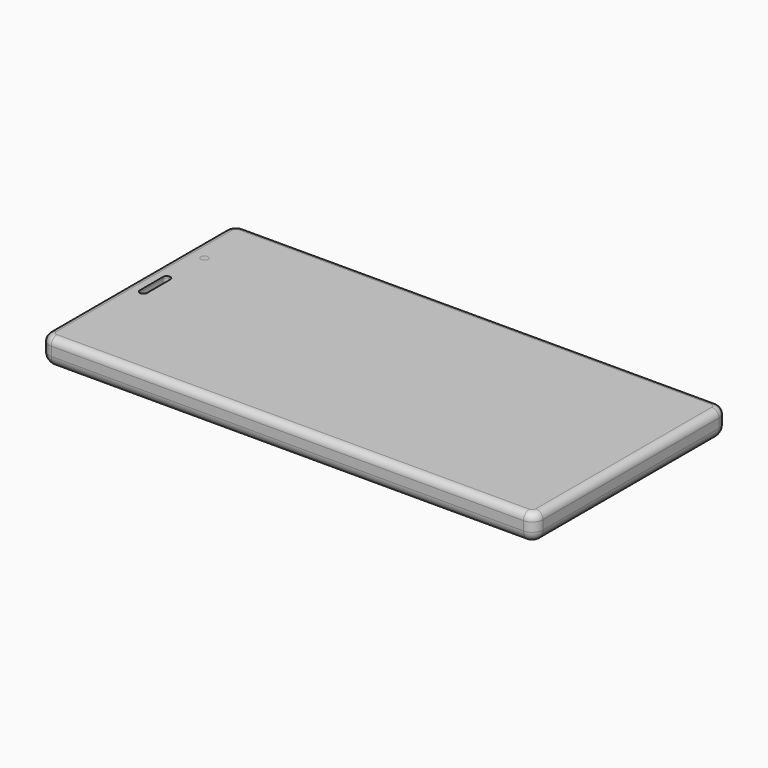
from build123d import *

# Parameters (mm, degrees)
BOX005_W          = 121
BOX005_H          = 63
BOX005_DEPTH      = 1
BOX007_W          = 4
BOX007_H          = 63
BOX007_DEPTH      = 1
FILLET006_R       = 1
CYLINDER005_R     = 1
CYLINDER005_DEPTH = 10
CYLINDER004_R     = 1
CYLINDER004_DEPTH = 10
CYLINDER001_R     = 2
CYLINDER001_DEPTH = 0.2
CYLINDER_R        = 2
CYLINDER_DEPTH    = 0.2
BOX008_W          = 8
BOX008_H          = 16
BOX008_DEPTH      = 0.2
BOX013_W          = 42
BOX013_H          = 62
BOX013_DEPTH      = 3
BOX014_W          = 10
BOX014_H          = 62
BOX014_DEPTH      = 3
BOX015_W          = 77
BOX015_H          = 61.7
BOX015_DEPTH      = 4.05
CYLINDER010_R     = 1
CYLINDER010_DEPTH = 10
BOX016_W          = 2
BOX016_H          = 10
BOX016_DEPTH      = 10
FILLET008_R       = 0.95
BOX004_W          = 133
BOX004_H          = 63
BOX004_DEPTH      = 0.5
FILLET005_R       = 1
CYLINDER012_R     = 1
CYLINDER012_DEPTH = 2
BOX017_W          = 3
BOX017_H          = 5
BOX017_DEPTH      = 10
CYLINDER011_R     = 2
CYLINDER011_DEPTH = 10
CYLINDER009_R     = 1.2
CYLINDER009_DEPTH = 0.1
CYLINDER008_R     = 1.2
CYLINDER008_DEPTH = 0.1
BOX011_W          = 9
BOX011_H          = 2
BOX011_DEPTH      = 0.3
BOX012_W          = 9
BOX012_H          = 2
BOX012_DEPTH      = 0.3
CYLINDER006_R     = 1.5
CYLINDER006_DEPTH = 10
CYLINDER007_R     = 1.5
CYLINDER007_DEPTH = 10
BOX010_W          = 8
BOX010_H          = 16
BOX010_DEPTH      = 1.2
CYLINDER003_R     = 2.5
CYLINDER003_DEPTH = 0.3
CYLINDER002_R     = 2.5
CYLINDER002_DEPTH = 0.3
BOX009_W          = 9
BOX009_H          = 16
BOX009_DEPTH      = 0.3
BOX003_W          = 133
BOX003_H          = 63
BOX003_DEPTH      = 0.5
FILLET004_R       = 1
BOX018_W          = 3
BOX018_H          = 5
BOX018_DEPTH      = 10
FILLET009_R       = 1.49
BOX006_W          = 8
BOX006_H          = 63
BOX006_DEPTH      = 1
FILLET007_R       = 1
BOX020_W          = 8
BOX020_H          = 8
BOX020_DEPTH      = 1
FILLET011_R       = 3
BOX022_W          = 8
BOX022_H          = 4
BOX022_DEPTH      = 1
FILLET013_R       = 1.5
BOX021_W          = 8
BOX021_H          = 4
BOX021_DEPTH      = 10
FILLET012_R       = 1.5
BOX019_W          = 8
BOX019_H          = 8
BOX019_DEPTH      = 10
FILLET010_R       = 3
BOX001_W          = 133
BOX001_H          = 63
BOX001_DEPTH      = 10
FILLET002_R       = 1
BOX_W             = 137
BOX_H             = 67
BOX_DEPTH         = 7.5
FILLET_R          = 3
FILLET001_R       = 2


with BuildPart() as screen:
    # Box005 → Box005 (new body)
    with BuildSketch(Plane(origin=(10, 2, 6), x_dir=(1, 0, 0), z_dir=(0, 0, 1))):
        with Locations((60.5, 31.5)):
            Rectangle(BOX005_W, BOX005_H)
    extrude(amount=BOX005_DEPTH)


with BuildPart() as bottom:
    # Box007 → Box007 (new body)
    with BuildSketch(Plane(origin=(131, 2, 6), x_dir=(1, 0, 0), z_dir=(0, 0, 1))):
        with Locations((2, 31.5)):
            Rectangle(BOX007_W, BOX007_H)
    extrude(amount=BOX007_DEPTH)

    # Fillet006
    fillet006_edges = [bottom.edges().sort_by_distance(p)[0] for p in [
        (135, 2, 6.5),
        (135, 65, 6.5),
    ]]
    fillet(fillet006_edges, radius=FILLET006_R)


with BuildPart() as cilindro005:
    # Cylinder005 → Cylinder005 (new body)
    with BuildSketch(Plane(origin=(38.5, 11, 1), x_dir=(1, 0, 0), z_dir=(0, 0, 1))):
        Circle(CYLINDER005_R)
    extrude(amount=CYLINDER005_DEPTH)


with BuildPart() as cilindro004:
    # Cylinder004 → Cylinder004 (new body)
    with BuildSketch(Plane(origin=(38.5, 27, 1), x_dir=(1, 0, 0), z_dir=(0, 0, 1))):
        Circle(CYLINDER004_R)
    extrude(amount=CYLINDER004_DEPTH)


with BuildPart() as cilindro001:
    # Cylinder001 → Cylinder001 (new body)
    with BuildSketch(Plane(origin=(39, 26.5, 1), x_dir=(1, 0, 0), z_dir=(0, 0, 1))):
        Circle(CYLINDER001_R)
    extrude(amount=CYLINDER001_DEPTH)


with BuildPart() as cilindro:
    # Cylinder → Cylinder (new body)
    with BuildSketch(Plane(origin=(39, 10.5, 1), x_dir=(1, 0, 0), z_dir=(0, 0, 1))):
        Circle(CYLINDER_R)
    extrude(amount=CYLINDER_DEPTH)


with BuildPart() as obj1:
    # Box008 → Box008 (new body)
    with BuildSketch(Plane(origin=(35, 10.5, 1), x_dir=(1, 0, 0), z_dir=(0, 0, 1))):
        with Locations((4, 8)):
            Rectangle(BOX008_W, BOX008_H)
    extrude(amount=BOX008_DEPTH)

    # Fusion: union Cilindro001, Cilindro
    add(cilindro001.part)
    add(cilindro.part)


with BuildPart() as obj1_1:
    # Fusion placement: moved
    add(obj1.part.moved(Location((-0.5, 0.5, 4.8))))

    # Cut005: cut Cilindro004
    add(cilindro004.part, mode=Mode.SUBTRACT)

    # Cut006: cut Cilindro005
    add(cilindro005.part, mode=Mode.SUBTRACT)


with BuildPart() as pcb:
    # Box013 → Box013 (new body)
    with BuildSketch(Plane(origin=(2.5, 2.5, 2), x_dir=(1, 0, 0), z_dir=(0, 0, 1))):
        with Locations((21, 31)):
            Rectangle(BOX013_W, BOX013_H)
    extrude(amount=BOX013_DEPTH)


with BuildPart() as loud_speaker:
    # Box014 → Box014 (new body)
    with BuildSketch(Plane(origin=(124.5, 2.5, 2), x_dir=(1, 0, 0), z_dir=(0, 0, 1))):
        with Locations((5, 31)):
            Rectangle(BOX014_W, BOX014_H)
    extrude(amount=BOX014_DEPTH)


with BuildPart() as battery:
    # Box015 → Box015 (new body)
    with BuildSketch(Plane(origin=(47, 2.5, 1.1), x_dir=(1, 0, 0), z_dir=(0, 0, 1))):
        with Locations((38.5, 30.85)):
            Rectangle(BOX015_W, BOX015_H)
    extrude(amount=BOX015_DEPTH)


with BuildPart() as cilindro010:
    # Cylinder010 → Cylinder010 (new body)
    with BuildSketch(Plane(origin=(5.5, 50, 0), x_dir=(1, 0, 0), z_dir=(0, 0, 1))):
        Circle(CYLINDER010_R)
    extrude(amount=CYLINDER010_DEPTH)


with BuildPart() as fillet008:
    # Box016 → Box016 (new body)
    with BuildSketch(Plane(origin=(4, 28.5, 0), x_dir=(1, 0, 0), z_dir=(0, 0, 1))):
        with Locations((1, 5)):
            Rectangle(BOX016_W, BOX016_H)
    extrude(amount=BOX016_DEPTH)

    # Fillet008
    fillet008_edges = [fillet008.edges().sort_by_distance(p)[0] for p in [
        (4, 28.5, 5),
        (4, 38.5, 5),
        (6, 28.5, 5),
        (6, 38.5, 5),
    ]]
    fillet(fillet008_edges, radius=FILLET008_R)


with BuildPart() as cut016:
    # Box004 → Box004 (new body)
    with BuildSketch(Plane(origin=(2, 2, 5.5), x_dir=(1, 0, 0), z_dir=(0, 0, 1))):
        with Locations((66.5, 31.5)):
            Rectangle(BOX004_W, BOX004_H)
    extrude(amount=BOX004_DEPTH)

    # Fillet005
    fillet005_edges = [cut016.edges().sort_by_distance(p)[0] for p in [
        (2, 2, 5.75),
        (2, 65, 5.75),
        (135, 2, 5.75),
        (135, 65, 5.75),
    ]]
    fillet(fillet005_edges, radius=FILLET005_R)


with BuildPart() as cut016_1:
    # Fillet005 placement: moved
    add(cut016.part.moved(Location((0, 0, 1.5))))

    # Cut014: cut Fillet008
    add(fillet008.part, mode=Mode.SUBTRACT)

    # Cut016: cut Cilindro010
    add(cilindro010.part, mode=Mode.SUBTRACT)


with BuildPart() as cilindro012:
    # Cylinder012 → Cylinder012 (new body)
    with BuildSketch(Plane(origin=(5.5, 50, 5.5), x_dir=(1, 0, 0), z_dir=(0, 0, 1))):
        Circle(CYLINDER012_R)
    extrude(amount=CYLINDER012_DEPTH)


with BuildPart() as cubo011:
    # Box017 → Box017 (new body)
    with BuildSketch(Plane(origin=(3.5, 21, 0), x_dir=(1, 0, 0), z_dir=(0, 0, 1))):
        with Locations((1.5, 2.5)):
            Rectangle(BOX017_W, BOX017_H)
    extrude(amount=BOX017_DEPTH)


with BuildPart() as cilindro011:
    # Cylinder011 → Cylinder011 (new body)
    with BuildSketch(Plane(origin=(5.5, 44, 0), x_dir=(1, 0, 0), z_dir=(0, 0, 1))):
        Circle(CYLINDER011_R)
    extrude(amount=CYLINDER011_DEPTH)


with BuildPart() as cilindro009:
    # Cylinder009 → Cylinder009 (new body)
    with BuildSketch(Plane(origin=(38.5, 27, 1), x_dir=(1, 0, 0), z_dir=(0, 0, 1))):
        Circle(CYLINDER009_R)
    extrude(amount=CYLINDER009_DEPTH)


with BuildPart() as cilindro008:
    # Cylinder008 → Cylinder008 (new body)
    with BuildSketch(Plane(origin=(38.5, 11, 1), x_dir=(1, 0, 0), z_dir=(0, 0, 1))):
        Circle(CYLINDER008_R)
    extrude(amount=CYLINDER008_DEPTH)


with BuildPart() as cubo008:
    # Box011 → Box011 (new body)
    with BuildSketch(Plane(origin=(34, 11, 5.5), x_dir=(1, 0, 0), z_dir=(0, 0, 1))):
        with Locations((4.5, 1)):
            Rectangle(BOX011_W, BOX011_H)
    extrude(amount=BOX011_DEPTH)


with BuildPart() as cubo009:
    # Box012 → Box012 (new body)
    with BuildSketch(Plane(origin=(34, 25, 5.5), x_dir=(1, 0, 0), z_dir=(0, 0, 1))):
        with Locations((4.5, 1)):
            Rectangle(BOX012_W, BOX012_H)
    extrude(amount=BOX012_DEPTH)


with BuildPart() as cilindro006:
    # Cylinder006 → Cylinder006 (new body)
    with BuildSketch(Plane(origin=(38.5, 11, 1), x_dir=(1, 0, 0), z_dir=(0, 0, 1))):
        Circle(CYLINDER006_R)
    extrude(amount=CYLINDER006_DEPTH)


with BuildPart() as cilindro007:
    # Cylinder007 → Cylinder007 (new body)
    with BuildSketch(Plane(origin=(38.5, 27, 1), x_dir=(1, 0, 0), z_dir=(0, 0, 1))):
        Circle(CYLINDER007_R)
    extrude(amount=CYLINDER007_DEPTH)


with BuildPart() as cut008:
    # Box010 → Box010 (new body)
    with BuildSketch(Plane(origin=(34.5, 11, 5), x_dir=(1, 0, 0), z_dir=(0, 0, 1))):
        with Locations((4, 8)):
            Rectangle(BOX010_W, BOX010_H)
    extrude(amount=BOX010_DEPTH)

    # Cut001: cut Cilindro004
    add(cilindro004.part, mode=Mode.SUBTRACT)

    # Cut002: cut Cilindro005
    add(cilindro005.part, mode=Mode.SUBTRACT)

    # Cut007: cut Cilindro007
    add(cilindro007.part, mode=Mode.SUBTRACT)

    # Cut008: cut Cilindro006
    add(cilindro006.part, mode=Mode.SUBTRACT)


with BuildPart() as cilindro003:
    # Cylinder003 → Cylinder003 (new body)
    with BuildSketch(Plane(origin=(38.5, 27, 1), x_dir=(1, 0, 0), z_dir=(0, 0, 1))):
        Circle(CYLINDER003_R)
    extrude(amount=CYLINDER003_DEPTH)


with BuildPart() as cilindro002:
    # Cylinder002 → Cylinder002 (new body)
    with BuildSketch(Plane(origin=(38.5, 11, 1), x_dir=(1, 0, 0), z_dir=(0, 0, 1))):
        Circle(CYLINDER002_R)
    extrude(amount=CYLINDER002_DEPTH)


with BuildPart() as dont_show:
    # Box009 → Box009 (new body)
    with BuildSketch(Plane(origin=(34, 11, 1), x_dir=(1, 0, 0), z_dir=(0, 0, 1))):
        with Locations((4.5, 8)):
            Rectangle(BOX009_W, BOX009_H)
    extrude(amount=BOX009_DEPTH)

    # Fusion001: union Cilindro003, Cilindro002
    add(cilindro003.part)
    add(cilindro002.part)


with BuildPart() as dont_show_1:
    # Fusion001 placement: moved
    add(dont_show.part.moved(Location((0, 0, 4.4))))

    # Cut003: cut Cilindro005
    add(cilindro005.part, mode=Mode.SUBTRACT)

    # Cut004: cut Cilindro004
    add(cilindro004.part, mode=Mode.SUBTRACT)


with BuildPart() as dont_show_2:
    # Cut004 placement: moved
    add(dont_show_1.part.moved(Location((0, 0, 0.4))))

    # Fusion002: union Cut008
    add(cut008.part)


with BuildPart() as cut022:
    # Box003 → Box003 (new body)
    with BuildSketch(Plane(origin=(2, 2, 5.5), x_dir=(1, 0, 0), z_dir=(0, 0, 1))):
        with Locations((66.5, 31.5)):
            Rectangle(BOX003_W, BOX003_H)
    extrude(amount=BOX003_DEPTH)

    # Fillet004
    fillet004_edges = [cut022.edges().sort_by_distance(p)[0] for p in [
        (2, 2, 5.75),
        (2, 65, 5.75),
        (135, 2, 5.75),
        (135, 65, 5.75),
    ]]
    fillet(fillet004_edges, radius=FILLET004_R)

    # Cut009: cut Dont show
    add(dont_show_2.part, mode=Mode.SUBTRACT)

    # Fusion003: union Cubo008, Cubo009
    add(cubo008.part)
    add(cubo009.part)

    # Cut010: cut Cilindro008
    add(cilindro008.part, mode=Mode.SUBTRACT)

    # Cut011: cut Cilindro009
    add(cilindro009.part, mode=Mode.SUBTRACT)

    # Cut012: cut Cilindro004
    add(cilindro004.part, mode=Mode.SUBTRACT)

    # Cut013: cut Cilindro005
    add(cilindro005.part, mode=Mode.SUBTRACT)

    # Cut017: cut Cilindro010
    add(cilindro010.part, mode=Mode.SUBTRACT)

    # Cut019: cut Cilindro011
    add(cilindro011.part, mode=Mode.SUBTRACT)

    # Cut020: cut Cubo011
    add(cubo011.part, mode=Mode.SUBTRACT)

    # Cut022: cut Fillet008
    add(fillet008.part, mode=Mode.SUBTRACT)


with BuildPart() as fillet009:
    # Box018 → Box018 (new body)
    with BuildSketch(Plane(origin=(3.5, 21, 0), x_dir=(1, 0, 0), z_dir=(0, 0, 1))):
        with Locations((1.5, 2.5)):
            Rectangle(BOX018_W, BOX018_H)
    extrude(amount=BOX018_DEPTH)

    # Fillet009
    fillet009_edges = [fillet009.edges().sort_by_distance(p)[0] for p in [
        (3.5, 21, 5),
        (3.5, 26, 5),
        (6.5, 21, 5),
        (6.5, 26, 5),
    ]]
    fillet(fillet009_edges, radius=FILLET009_R)


with BuildPart() as cut023:
    # Box006 → Box006 (new body)
    with BuildSketch(Plane(origin=(2, 2, 6), x_dir=(1, 0, 0), z_dir=(0, 0, 1))):
        with Locations((4, 31.5)):
            Rectangle(BOX006_W, BOX006_H)
    extrude(amount=BOX006_DEPTH)

    # Fillet007
    fillet007_edges = [cut023.edges().sort_by_distance(p)[0] for p in [
        (2, 2, 6.5),
        (2, 65, 6.5),
    ]]
    fillet(fillet007_edges, radius=FILLET007_R)

    # Cut015: cut Fillet008
    add(fillet008.part, mode=Mode.SUBTRACT)

    # Cut018: cut Cilindro010
    add(cilindro010.part, mode=Mode.SUBTRACT)

    # Cut021: cut Fillet009
    add(fillet009.part, mode=Mode.SUBTRACT)

    # Cut023: cut Cilindro011
    add(cilindro011.part, mode=Mode.SUBTRACT)


with BuildPart() as fillet011:
    # Box020 → Box020 (new body)
    with BuildSketch(Plane(origin=(4, 55, -1), x_dir=(1, 0, 0), z_dir=(0, 0, 1))):
        with Locations((4, 4)):
            Rectangle(BOX020_W, BOX020_H)
    extrude(amount=BOX020_DEPTH)

    # Fillet011
    fillet011_edges = [fillet011.edges().sort_by_distance(p)[0] for p in [
        (4, 55, -0.5),
        (4, 63, -0.5),
        (12, 55, -0.5),
        (12, 63, -0.5),
    ]]
    fillet(fillet011_edges, radius=FILLET011_R)


with BuildPart() as fillet011_1:
    # Fillet011 placement: moved
    add(fillet011.part.moved(Location((0, 0, 1))))


with BuildPart() as fillet013:
    # Box022 → Box022 (new body)
    with BuildSketch(Plane(origin=(4, 55, -1), x_dir=(1, 0, 0), z_dir=(0, 0, 1))):
        with Locations((4, 2)):
            Rectangle(BOX022_W, BOX022_H)
    extrude(amount=BOX022_DEPTH)

    # Fillet013
    fillet013_edges = [fillet013.edges().sort_by_distance(p)[0] for p in [
        (4, 55, -0.5),
        (4, 59, -0.5),
        (12, 55, -0.5),
        (12, 59, -0.5),
    ]]
    fillet(fillet013_edges, radius=FILLET013_R)


with BuildPart() as fillet013_1:
    # Fillet013 placement: moved
    add(fillet013.part.moved(Location((0, -6, 1))))


with BuildPart() as fillet012:
    # Box021 → Box021 (new body)
    with BuildSketch(Plane(origin=(4, 55, -1), x_dir=(1, 0, 0), z_dir=(0, 0, 1))):
        with Locations((4, 2)):
            Rectangle(BOX021_W, BOX021_H)
    extrude(amount=BOX021_DEPTH)

    # Fillet012
    fillet012_edges = [fillet012.edges().sort_by_distance(p)[0] for p in [
        (4, 55, 4),
        (4, 59, 4),
        (12, 55, 4),
        (12, 59, 4),
    ]]
    fillet(fillet012_edges, radius=FILLET012_R)


with BuildPart() as fillet012_1:
    # Fillet012 placement: moved
    add(fillet012.part.moved(Location((0, -6, 0))))


with BuildPart() as fillet010:
    # Box019 → Box019 (new body)
    with BuildSketch(Plane(origin=(4, 55, -1), x_dir=(1, 0, 0), z_dir=(0, 0, 1))):
        with Locations((4, 4)):
            Rectangle(BOX019_W, BOX019_H)
    extrude(amount=BOX019_DEPTH)

    # Fillet010
    fillet010_edges = [fillet010.edges().sort_by_distance(p)[0] for p in [
        (4, 55, 4),
        (4, 63, 4),
        (12, 55, 4),
        (12, 63, 4),
    ]]
    fillet(fillet010_edges, radius=FILLET010_R)


with BuildPart() as fillet002:
    # Box001 → Box001 (new body)
    with BuildSketch(Plane(origin=(2, 2, 5.5), x_dir=(1, 0, 0), z_dir=(0, 0, 1))):
        with Locations((66.5, 31.5)):
            Rectangle(BOX001_W, BOX001_H)
    extrude(amount=BOX001_DEPTH)

    # Fillet002
    fillet002_edges = [fillet002.edges().sort_by_distance(p)[0] for p in [
        (2, 2, 10.5),
        (2, 65, 10.5),
        (135, 2, 10.5),
        (135, 65, 10.5),
    ]]
    fillet(fillet002_edges, radius=FILLET002_R)


with BuildPart() as fillet002_1:
    # Fillet002 placement: moved
    add(fillet002.part.moved(Location((0, 0, -4.5))))


with BuildPart() as cut025:
    # Box → Box (new body)
    with BuildSketch(Plane.XY):
        with Locations((68.5, 33.5)):
            Rectangle(BOX_W, BOX_H)
    extrude(amount=BOX_DEPTH)

    # Fillet
    fillet_edges = [cut025.edges().sort_by_distance(p)[0] for p in [
        (0, 0, 3.75),
        (0, 67, 3.75),
        (0, 33.5, 0),
        (137, 0, 3.75),
        (137, 67, 3.75),
        (137, 33.5, 0),
        (68.5, 0, 0),
        (68.5, 67, 0),
    ]]
    fillet(fillet_edges, radius=FILLET_R)

    # Fillet001
    fillet001_edges = [cut025.edges().sort_by_distance(p)[0] for p in [
        (0, 33.5, 7.5),
        (0.87868, 0.87868, 7.5),
        (68.5, 0, 7.5),
        (68.5, 67, 7.5),
        (136.12132, 0.87868, 7.5),
        (136.12132, 66.12132, 7.5),
        (137, 33.5, 7.5),
    ]]
    fillet(fillet001_edges, radius=FILLET001_R)

    # Cut: cut Fillet002
    add(fillet002_1.part, mode=Mode.SUBTRACT)

    # Cut024: cut Fillet010
    add(fillet010.part, mode=Mode.SUBTRACT)

    # Cut025: cut Fillet012
    add(fillet012_1.part, mode=Mode.SUBTRACT)


solid = Compound([screen.part, bottom.part, obj1_1.part, pcb.part, loud_speaker.part, battery.part, cut016_1.part, cilindro012.part, cut022.part, cut023.part, fillet011_1.part, fillet013_1.part, cut025.part])
